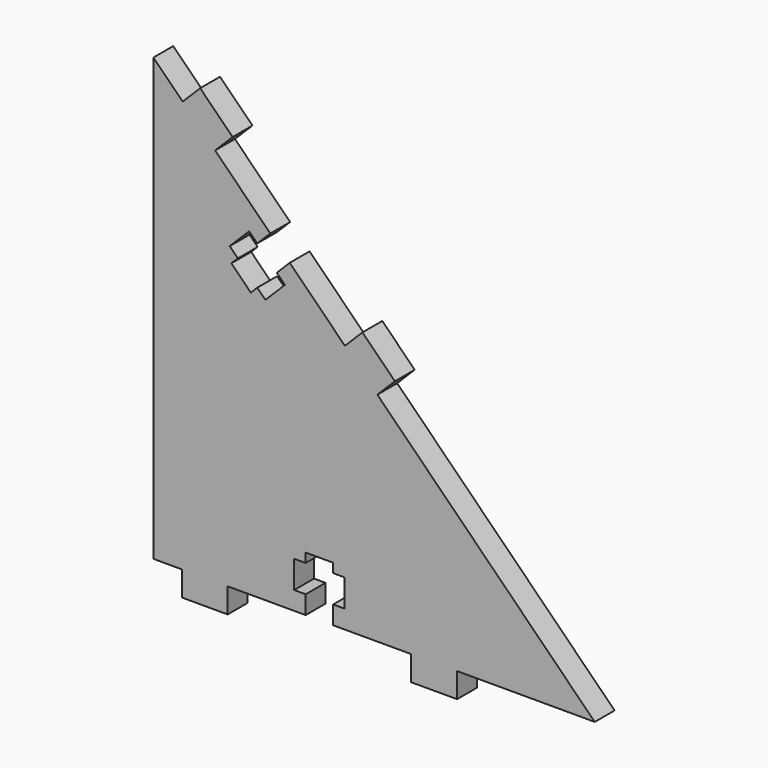
from build123d import *

# Parameters (mm, degrees)
F2_DEPTH = 2.7


with BuildPart() as f2:
    # F1 (on Front) → F2 (new body)
    with BuildSketch(Plane.XZ):
        Polygon((-48.0908116908, 48.0908116908), (-48.0908116908, 0), (-45, 0), (-45, -2.7), (-40, -2.7), (-40, 0), (-31.5, 0), (-31.5, 2), (-32.75, 2), (-32.75, 5), (-31.5, 5), (-31.5, 6), (-28.5, 6), (-28.5, 5), (-27.25, 5), (-27.25, 2), (-28.5, 2), (-28.5, 0), (-20, 0), (-20, -2.7), (-15, -2.7), (-15, 0), (0, 0), (-23.6880771697, 23.6880771697), (-21.7788888605, 25.597265479), (-25.3144227665, 29.1327993849), (-27.2236110757, 27.2236110757), (-33.2340187158, 33.2340187158), (-34.6482322781, 31.8198051534), (-33.7643488017, 30.9359216769), (-35.8856691452, 28.8146013334), (-36.7695526217, 29.6984848098), (-37.4766594029, 28.9913780286), (-39.5979797464, 31.1126983722), (-38.8908729653, 31.8198051534), (-39.7747564417, 32.7036886299), (-37.6534360982, 34.8250089734), (-36.7695526217, 33.941125497), (-35.3553390593, 35.3553390593), (-41.3657466994, 41.3657466994), (-39.4565583902, 43.2749350086), (-42.9920922961, 46.8104689145), (-44.9012806053, 44.9012806053), align=None)
    extrude(amount=F2_DEPTH)


solid = f2.part
